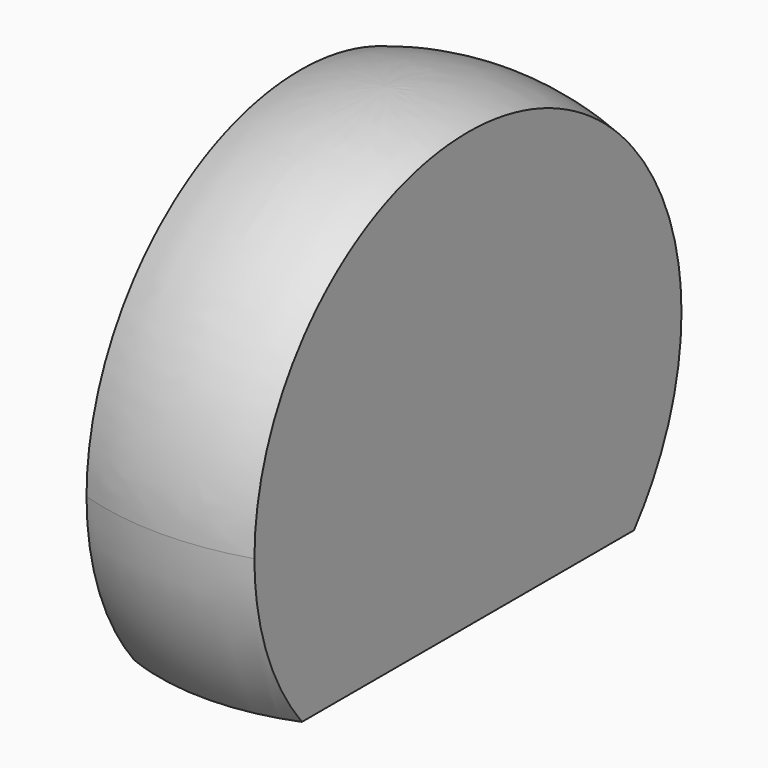
from build123d import *

# Parameters (mm, degrees)
F2_W     = 10.5
F2_H     = 35
F3_DEPTH = 28


with BuildPart() as f1:
    # F0 (on Front) → F1 (revolve)
    with BuildSketch(Plane.XZ):
        with BuildLine():
            ThreePointArc((0, -35), (12.374369, -29.874369), (17.5, -17.5))
            ThreePointArc((17.5, -17.5), (12.374369, -5.125631), (0, 0))
            Line((0, 0), (0, -35))
        make_face()
    revolve(axis=Axis((0, 0, -17.5), (0, 0, 1)))


with BuildPart() as f3:
    # F2 (on Top) → F3 (new body)
    with BuildSketch(Plane.XY):
        Rectangle(F2_W, F2_H)
    extrude(amount=-F3_DEPTH)


with BuildPart() as f1_1:
    add(f1.part)

    # F4: intersect F3
    add(f3.part, mode=Mode.INTERSECT)


solid = f1_1.part
